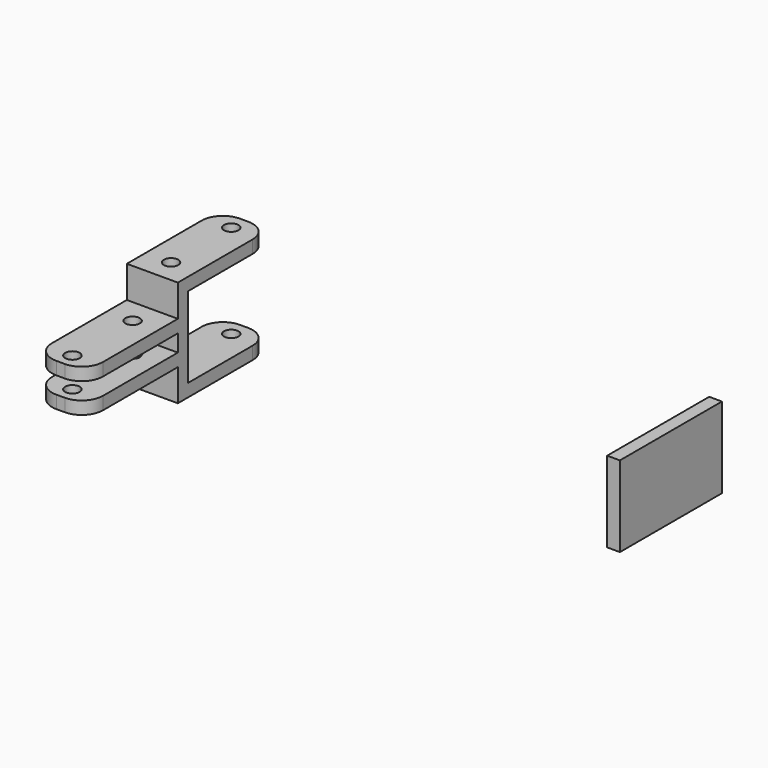
from build123d import *

# Parameters (mm, degrees)
BOX003_W          = 3
BOX003_H          = 30
BOX003_DEPTH      = 19
CYLINDER001_R     = 1.7
CYLINDER001_DEPTH = 31
CYLINDER_R        = 1.7
CYLINDER_DEPTH    = 31
BOX001_W          = 12
BOX001_H          = 27
BOX001_DEPTH      = 3
BOX002_W          = 12
BOX002_H          = 27
BOX002_DEPTH      = 3
BOX004_W          = 12
BOX004_H          = 27
BOX004_DEPTH      = 3
BOX005_W          = 12
BOX005_H          = 27
BOX005_DEPTH      = 3
BOX_W             = 12
BOX_H             = 3
BOX_DEPTH         = 19
FILLET_R          = 5


with BuildPart() as cube003:
    # Box003 → Box003 (new body)
    with BuildSketch(Plane(origin=(113, 0, 0), x_dir=(1, 0, 0), z_dir=(0, 0, 1))):
        with Locations((1.5, 15)):
            Rectangle(BOX003_W, BOX003_H)
    extrude(amount=BOX003_DEPTH)


with BuildPart() as cylinder001:
    # Cylinder001 → Cylinder001 (new body)
    with BuildSketch(Plane(origin=(6, 23.2, -6), x_dir=(1, 0, 0), z_dir=(0, 0, 1))):
        Circle(CYLINDER001_R)
    extrude(amount=CYLINDER001_DEPTH)


with BuildPart() as cylinder:
    # Cylinder → Cylinder (new body)
    with BuildSketch(Plane(origin=(6, 5.5, -6), x_dir=(1, 0, 0), z_dir=(0, 0, 1))):
        Circle(CYLINDER_R)
    extrude(amount=CYLINDER_DEPTH)


with BuildPart() as obj1:
    # Fusion base: copy of Cylinder
    add(cylinder.part)

    # Fusion: union Cylinder001
    add(cylinder001.part)


with BuildPart() as obj1_1:
    # Fusion placement: moved
    add(obj1.part.moved(Location((0, -29, 0))))


with BuildPart() as obj2:
    # Fusion001 base: copy of Cylinder
    add(cylinder.part)

    # Fusion001: union Cylinder001
    add(cylinder001.part)

    # Fusion002: union obj1
    add(obj1_1.part)


with BuildPart() as cube001:
    # Box001 → Box001 (new body)
    with BuildSketch(Plane.XY.offset(-3)):
        with Locations((6, 13.5)):
            Rectangle(BOX001_W, BOX001_H)
    extrude(amount=BOX001_DEPTH)


with BuildPart() as cube002:
    # Box002 → Box002 (new body)
    with BuildSketch(Plane.XY.offset(19)):
        with Locations((6, 13.5)):
            Rectangle(BOX002_W, BOX002_H)
    extrude(amount=BOX002_DEPTH)


with BuildPart() as cube004:
    # Box004 → Box004 (new body)
    with BuildSketch(Plane(origin=(0, -27, 4.5), x_dir=(1, 0, 0), z_dir=(0, 0, 1))):
        with Locations((6, 13.5)):
            Rectangle(BOX004_W, BOX004_H)
    extrude(amount=BOX004_DEPTH)


with BuildPart() as cube005:
    # Box005 → Box005 (new body)
    with BuildSketch(Plane(origin=(0, -27, 11.5), x_dir=(1, 0, 0), z_dir=(0, 0, 1))):
        with Locations((6, 13.5)):
            Rectangle(BOX005_W, BOX005_H)
    extrude(amount=BOX005_DEPTH)


with BuildPart() as fillet_body:
    # Box → Box (new body)
    with BuildSketch(Plane.XY):
        with Locations((6, 1.5)):
            Rectangle(BOX_W, BOX_H)
    extrude(amount=BOX_DEPTH)

    # Fusion003: union Cube001, Cube002, Cube004, Cube005
    add(cube001.part)
    add(cube002.part)
    add(cube004.part)
    add(cube005.part)

    # Cut: cut obj2
    add(obj2.part, mode=Mode.SUBTRACT)

    # Fillet
    fillet_edges = [fillet_body.edges().sort_by_distance(p)[0] for p in [
        (12, -27, 13),
        (0, -27, 13),
        (12, -27, 6),
        (12, 27, -1.5),
        (12, 27, 20.5),
        (0, 27, 20.5),
        (0, 27, -1.5),
        (0, -27, 6),
    ]]
    fillet(fillet_edges, radius=FILLET_R)


solid = Compound([cube003.part, fillet_body.part])
